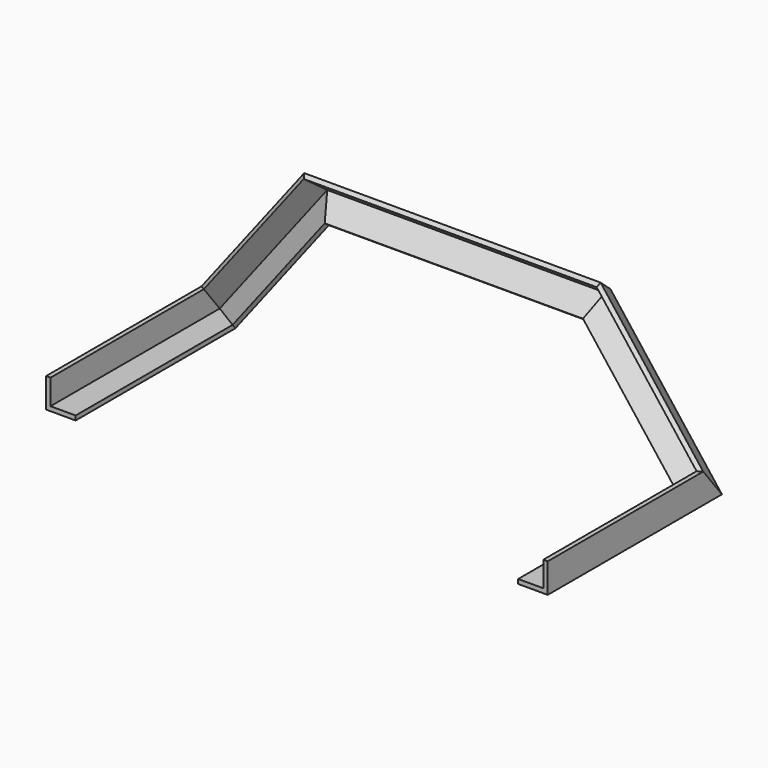
from build123d import *

# Parameters (mm, degrees)
F3_W   = 53.975
F3_H   = 9.525
F3_W_2 = 9.525
F3_H_2 = 53.975


with BuildPart() as f4:
    # F4: sweep along a path in F1, F0, F1
    with BuildLine(Plane.XY) as f4_path:
        Line((0, 0), (0, -428.9635121822))
    with BuildLine(Plane.XZ) as f4_path_2:
        Line((0, 0), (200.792491436, 260.2265179157))
        Line((200.792491436, 260.2265179157), (475.3324985504, 260.2265179157))
        Line((475.3324985504, 260.2265179157), (749.8725056648, 260.2265179157))
        Line((749.8725056648, 260.2265179157), (950.6649971008, 0))
    with BuildLine(Plane.XY) as f4_path_3:
        Line((950.6649971008, 0), (950.6649971008, -428.9635121822))
    # F3 (on plane+point) → F4 (sweep)
    with BuildSketch(Plane.XZ.offset(428.9635121822)):
        with Locations((-26.9875, 4.7625)):
            Rectangle(F3_W, F3_H)
        with Locations((-58.7375, 36.5125)):
            Rectangle(F3_W_2, F3_H_2)
        with Locations((-58.7375, 4.7625)):
            Rectangle(F3_W_2, F3_H)
    sweep(path=f4_path.line + f4_path_2.line + f4_path_3.line, transition=Transition.RIGHT)


solid = f4.part
